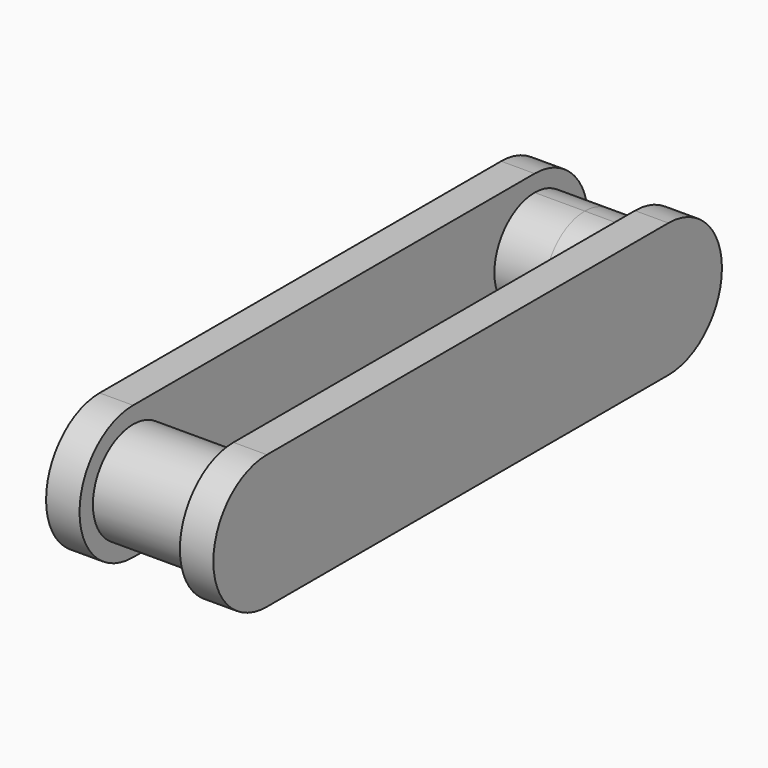
from build123d import *

# Parameters (mm, degrees)
F1_DEPTH = 76.2
F2_DEPTH = 45.72


with BuildPart() as f1:
    # F0 (on Right) → F1 (new body, symmetric)
    with BuildSketch(Plane.YZ):
        with BuildLine():
            ThreePointArc((-167.64, 0), (-185.4947706189, 43.1052293811), (-228.6, 60.96))
            Line((-228.6, 60.96), (-228.6, 45.72))
            ThreePointArc((-228.6, 45.72), (-196.2710779642, 32.3289220358), (-182.88, 0))
            ThreePointArc((-182.88, 0), (-196.2710779642, -32.3289220358), (-228.6, -45.72))
            Line((-228.6, -45.72), (-228.6, -60.96))
            ThreePointArc((-228.6, -60.96), (-185.4947706189, -43.1052293811), (-167.64, 0))
        make_face()
        with BuildLine():
            Line((228.6, 60.96), (-228.6, 60.96))
            ThreePointArc((-228.6, 60.96), (-185.4947706189, 43.1052293811), (-167.64, 0))
            ThreePointArc((-167.64, 0), (-185.4947706189, -43.1052293811), (-228.6, -60.96))
            Line((-228.6, -60.96), (228.6, -60.96))
            ThreePointArc((228.6, -60.96), (167.64, 0), (228.6, 60.96))
        make_face()
        with BuildLine():
            Line((-228.6, 45.72), (-228.6, 60.96))
            ThreePointArc((-228.6, 60.96), (-289.56, 0), (-228.6, -60.96))
            Line((-228.6, -60.96), (-228.6, -45.72))
            ThreePointArc((-228.6, -45.72), (-274.32, 0), (-228.6, 45.72))
        make_face()
        with BuildLine():
            ThreePointArc((289.56, 0), (271.7052293811, 43.1052293811), (228.6, 60.96))
            Line((228.6, 60.96), (228.6, 45.72))
            ThreePointArc((228.6, 45.72), (260.9289220358, 32.3289220358), (274.32, 0))
            ThreePointArc((274.32, 0), (260.9289220358, -32.3289220358), (228.6, -45.72))
            Line((228.6, -45.72), (228.6, -60.96))
            ThreePointArc((228.6, -60.96), (271.7052293811, -43.1052293811), (289.56, 0))
        make_face()
        with BuildLine():
            Line((228.6, 45.72), (228.6, 60.96))
            ThreePointArc((228.6, 60.96), (167.64, 0), (228.6, -60.96))
            Line((228.6, -60.96), (228.6, -45.72))
            ThreePointArc((228.6, -45.72), (182.88, 0), (228.6, 45.72))
        make_face()
        with BuildLine():
            Line((-228.6, -45.72), (-228.6, 45.72))
            ThreePointArc((-228.6, 45.72), (-274.32, 0), (-228.6, -45.72))
        make_face()
        with BuildLine():
            ThreePointArc((-182.88, 0), (-196.2710779642, 32.3289220358), (-228.6, 45.72))
            Line((-228.6, 45.72), (-228.6, -45.72))
            ThreePointArc((-228.6, -45.72), (-196.2710779642, -32.3289220358), (-182.88, 0))
        make_face()
        with BuildLine():
            Line((228.6, -45.72), (228.6, 45.72))
            ThreePointArc((228.6, 45.72), (182.88, 0), (228.6, -45.72))
        make_face()
        with BuildLine():
            ThreePointArc((274.32, 0), (260.9289220358, 32.3289220358), (228.6, 45.72))
            Line((228.6, 45.72), (228.6, -45.72))
            ThreePointArc((228.6, -45.72), (260.9289220358, -32.3289220358), (274.32, 0))
        make_face()
    extrude(amount=F1_DEPTH, both=True)

    # F0 (on Right) → F2 (cut, symmetric)
    with BuildSketch(Plane.YZ):
        with BuildLine():
            Line((228.6, 60.96), (-228.6, 60.96))
            ThreePointArc((-228.6, 60.96), (-185.4947706189, 43.1052293811), (-167.64, 0))
            ThreePointArc((-167.64, 0), (-185.4947706189, -43.1052293811), (-228.6, -60.96))
            Line((-228.6, -60.96), (228.6, -60.96))
            ThreePointArc((228.6, -60.96), (167.64, 0), (228.6, 60.96))
        make_face()
        with BuildLine():
            Line((-228.6, 45.72), (-228.6, 60.96))
            ThreePointArc((-228.6, 60.96), (-289.56, 0), (-228.6, -60.96))
            Line((-228.6, -60.96), (-228.6, -45.72))
            ThreePointArc((-228.6, -45.72), (-274.32, 0), (-228.6, 45.72))
        make_face()
        with BuildLine():
            ThreePointArc((-167.64, 0), (-185.4947706189, 43.1052293811), (-228.6, 60.96))
            Line((-228.6, 60.96), (-228.6, 45.72))
            ThreePointArc((-228.6, 45.72), (-196.2710779642, 32.3289220358), (-182.88, 0))
            ThreePointArc((-182.88, 0), (-196.2710779642, -32.3289220358), (-228.6, -45.72))
            Line((-228.6, -45.72), (-228.6, -60.96))
            ThreePointArc((-228.6, -60.96), (-185.4947706189, -43.1052293811), (-167.64, 0))
        make_face()
        with BuildLine():
            ThreePointArc((289.56, 0), (271.7052293811, 43.1052293811), (228.6, 60.96))
            Line((228.6, 60.96), (228.6, 45.72))
            ThreePointArc((228.6, 45.72), (260.9289220358, 32.3289220358), (274.32, 0))
            ThreePointArc((274.32, 0), (260.9289220358, -32.3289220358), (228.6, -45.72))
            Line((228.6, -45.72), (228.6, -60.96))
            ThreePointArc((228.6, -60.96), (271.7052293811, -43.1052293811), (289.56, 0))
        make_face()
        with BuildLine():
            Line((228.6, 45.72), (228.6, 60.96))
            ThreePointArc((228.6, 60.96), (167.64, 0), (228.6, -60.96))
            Line((228.6, -60.96), (228.6, -45.72))
            ThreePointArc((228.6, -45.72), (182.88, 0), (228.6, 45.72))
        make_face()
    extrude(amount=F2_DEPTH, both=True, mode=Mode.SUBTRACT)


solid = f1.part
